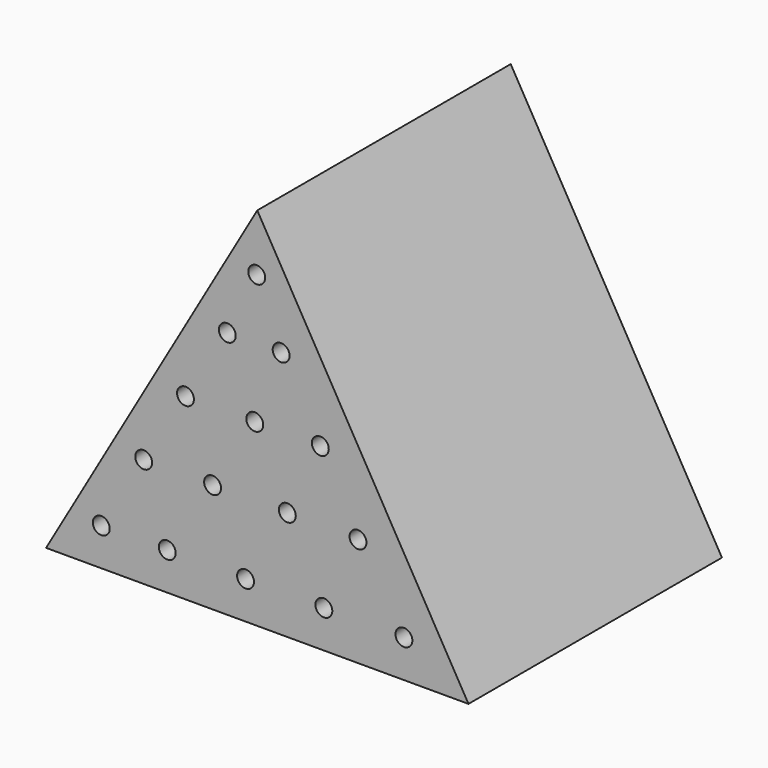
from build123d import *

# Parameters (mm, degrees)
F1_DEPTH = 19.05
F2_R     = 0.508
F3_DEPTH = 12.7


with BuildPart() as f1:
    # F0 (on Front) → F1 (new body)
    with BuildSketch(Plane.XZ):
        Polygon((-9.511831, 0), (-22.211831, -21.997045), (3.188169, -21.997045), align=None)
    extrude(amount=F1_DEPTH)

    # F2 (on face) → F3 (cut)
    with BuildSketch(Plane.XZ.offset(19.05)):
        with Locations((-18.891316, -19.739211)):
            Circle(F2_R)
        with Locations((-14.926066, -19.739211)):
            Circle(F2_R)
        with Locations((-5.508598, -19.739211)):
            Circle(F2_R)
        with Locations((-0.693653, -19.739211)):
            Circle(F2_R)
        with Locations((-10.217332, -19.739211)):
            Circle(F2_R)
        with Locations((-12.199957, -15.419921)):
            Circle(F2_R)
        with Locations((-7.704876, -15.419921)):
            Circle(F2_R)
        with Locations((-3.455166, -15.455325)):
            Circle(F2_R)
        with Locations((-8.076196, -7.064574)):
            Circle(F2_R)
        with Locations((-13.828542, -11.242247)):
            Circle(F2_R)
        with Locations((-5.721022, -11.242247)):
            Circle(F2_R)
        with Locations((-9.544656, -3.417961)):
            Circle(F2_R)
        with Locations((-11.314857, -7.064574)):
            Circle(F2_R)
        with Locations((-9.662744, -11.242247)):
            Circle(F2_R)
        with Locations((-16.342226, -15.419921)):
            Circle(F2_R)
    extrude(amount=-F3_DEPTH, mode=Mode.SUBTRACT)


solid = f1.part
